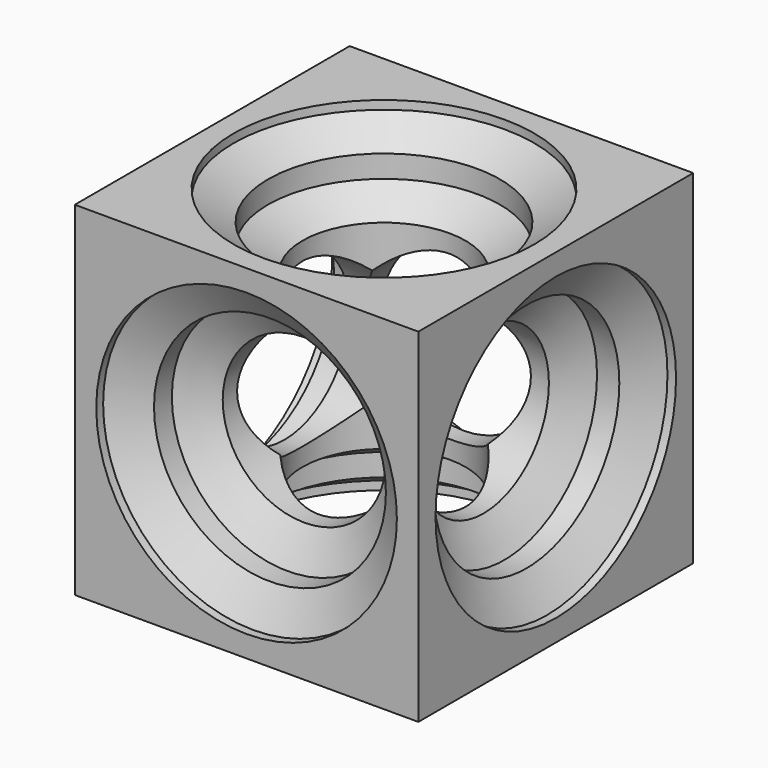
from build123d import *

# Parameters (mm, degrees)
F0_W             = 25.4
F0_H             = 25.4
F1_DEPTH         = 12.7
F3_D             = 3.175
F5_D             = 3.175
F7_D             = 3.175
F11_D            = 17.145
F11_DEPTH        = 3.81
F11_TIP          = 5.1508776566
F11_ON_F6_D      = 17.145
F11_ON_F6_DEPTH  = 3.81
F11_ON_F6_TIP    = 5.1508776566
F11_ON_F10_D     = 17.145
F11_ON_F10_DEPTH = 3.81
F11_ON_F10_TIP   = 5.1508776566
F11_ON_F4_D      = 17.145
F11_ON_F4_DEPTH  = 3.81
F11_ON_F4_TIP    = 5.1508776566
F11_ON_F9_D      = 17.145
F11_ON_F9_DEPTH  = 3.81
F11_ON_F9_TIP    = 5.1508776566
F11_ON_F2_D      = 17.145
F11_ON_F2_DEPTH  = 3.81
F11_ON_F2_TIP    = 5.1508776566
F12_D            = 22.225
F12_DEPTH        = 0.635
F12_TIP          = 6.6770636289
F12_ON_F2_D      = 22.225
F12_ON_F2_DEPTH  = 0.635
F12_ON_F2_TIP    = 6.6770636289
F12_ON_F10_D     = 22.225
F12_ON_F10_DEPTH = 0.635
F12_ON_F10_TIP   = 6.6770636289
F12_ON_F8_D      = 22.225
F12_ON_F8_DEPTH  = 0.635
F12_ON_F8_TIP    = 6.6770636289
F12_ON_F4_D      = 22.225
F12_ON_F4_DEPTH  = 0.635
F12_ON_F4_TIP    = 6.6770636289
F12_ON_F6_D      = 22.225
F12_ON_F6_DEPTH  = 0.635
F12_ON_F6_TIP    = 6.6770636289
F13_D            = 12.065
F13_DEPTH        = 3.81
F13_START        = 5.336186
F13_TIP          = 3.6246916843
F13_ON_F8_D      = 12.065
F13_ON_F8_DEPTH  = 3.81
F13_ON_F8_START  = 5.336186
F13_ON_F8_TIP    = 3.6246916843
F13_ON_F10_D     = 12.065
F13_ON_F10_DEPTH = 3.81
F13_ON_F10_START = 5.336186
F13_ON_F10_TIP   = 3.6246916843
F13_ON_F9_D      = 12.065
F13_ON_F9_DEPTH  = 3.81
F13_ON_F9_START  = 5.336186
F13_ON_F9_TIP    = 3.6246916843
F13_ON_F6_D      = 12.065
F13_ON_F6_DEPTH  = 3.81
F13_ON_F6_START  = 5.336186
F13_ON_F6_TIP    = 3.6246916843
F13_ON_F2_D      = 12.065
F13_ON_F2_DEPTH  = 3.81
F13_ON_F2_START  = 5.336186
F13_ON_F2_TIP    = 3.6246916843


with BuildPart() as f1:
    # F0 (on Top) → F1 (new body, symmetric)
    with BuildSketch(Plane.XY):
        Rectangle(F0_W, F0_H)
    extrude(amount=F1_DEPTH, both=True)

    # F3 (through all)
    with Locations(Plane.XY.offset(12.7)):
        with Locations((0, 0)):
            Hole(F3_D / 2)

    # F5 (through all)
    with Locations(Plane(origin=(-12.7, 0, 0), x_dir=(0, -1, 0), z_dir=(-1, 0, 0))):
        with Locations((0, 0)):
            Hole(F5_D / 2)

    # F7 (through all)
    with Locations(Plane(origin=(0, 12.7, 0), x_dir=(-1, 0, 0), z_dir=(0, 1, 0))):
        with Locations((0, 0)):
            Hole(F7_D / 2)

    # F11
    with Locations(Plane(origin=(0, 0, -12.7), x_dir=(1, 0, 0), z_dir=(0, 0, -1))):
        with Locations((0, 0)):
            Hole(F11_D / 2, depth=F11_DEPTH)
            with Locations((0, 0, -(F11_DEPTH + F11_TIP / 2))):  # 118° drill point
                Cone(0, F11_D / 2, F11_TIP, mode=Mode.SUBTRACT)

    # F11 on F6
    with Locations(Plane(origin=(0, 12.7, 0), x_dir=(-1, 0, 0), z_dir=(0, 1, 0))):
        with Locations((0, 0)):
            Hole(F11_ON_F6_D / 2, depth=F11_ON_F6_DEPTH)
            with Locations((0, 0, -(F11_ON_F6_DEPTH + F11_ON_F6_TIP / 2))):  # 118° drill point
                Cone(0, F11_ON_F6_D / 2, F11_ON_F6_TIP, mode=Mode.SUBTRACT)

    # F11 on F10
    with Locations(Plane.XZ.offset(12.7)):
        with Locations((0, 0)):
            Hole(F11_ON_F10_D / 2, depth=F11_ON_F10_DEPTH)
            with Locations((0, 0, -(F11_ON_F10_DEPTH + F11_ON_F10_TIP / 2))):  # 118° drill point
                Cone(0, F11_ON_F10_D / 2, F11_ON_F10_TIP, mode=Mode.SUBTRACT)

    # F11 on F4
    with Locations(Plane(origin=(-12.7, 0, 0), x_dir=(0, -1, 0), z_dir=(-1, 0, 0))):
        with Locations((0, 0)):
            Hole(F11_ON_F4_D / 2, depth=F11_ON_F4_DEPTH)
            with Locations((0, 0, -(F11_ON_F4_DEPTH + F11_ON_F4_TIP / 2))):  # 118° drill point
                Cone(0, F11_ON_F4_D / 2, F11_ON_F4_TIP, mode=Mode.SUBTRACT)

    # F11 on F9
    with Locations(Plane.YZ.offset(12.7)):
        with Locations((0, 0)):
            Hole(F11_ON_F9_D / 2, depth=F11_ON_F9_DEPTH)
            with Locations((0, 0, -(F11_ON_F9_DEPTH + F11_ON_F9_TIP / 2))):  # 118° drill point
                Cone(0, F11_ON_F9_D / 2, F11_ON_F9_TIP, mode=Mode.SUBTRACT)

    # F11 on F2
    with Locations(Plane.XY.offset(12.7)):
        with Locations((0, 0)):
            Hole(F11_ON_F2_D / 2, depth=F11_ON_F2_DEPTH)
            with Locations((0, 0, -(F11_ON_F2_DEPTH + F11_ON_F2_TIP / 2))):  # 118° drill point
                Cone(0, F11_ON_F2_D / 2, F11_ON_F2_TIP, mode=Mode.SUBTRACT)

    # F12
    with Locations(Plane.YZ.offset(12.7)):
        with Locations((0, 0)):
            Hole(F12_D / 2, depth=F12_DEPTH)
            with Locations((0, 0, -(F12_DEPTH + F12_TIP / 2))):  # 118° drill point
                Cone(0, F12_D / 2, F12_TIP, mode=Mode.SUBTRACT)

    # F12 on F2
    with Locations(Plane.XY.offset(12.7)):
        with Locations((0, 0)):
            Hole(F12_ON_F2_D / 2, depth=F12_ON_F2_DEPTH)
            with Locations((0, 0, -(F12_ON_F2_DEPTH + F12_ON_F2_TIP / 2))):  # 118° drill point
                Cone(0, F12_ON_F2_D / 2, F12_ON_F2_TIP, mode=Mode.SUBTRACT)

    # F12 on F10
    with Locations(Plane.XZ.offset(12.7)):
        with Locations((0, 0)):
            Hole(F12_ON_F10_D / 2, depth=F12_ON_F10_DEPTH)
            with Locations((0, 0, -(F12_ON_F10_DEPTH + F12_ON_F10_TIP / 2))):  # 118° drill point
                Cone(0, F12_ON_F10_D / 2, F12_ON_F10_TIP, mode=Mode.SUBTRACT)

    # F12 on F8
    with Locations(Plane(origin=(0, 0, -12.7), x_dir=(1, 0, 0), z_dir=(0, 0, -1))):
        with Locations((0, 0)):
            Hole(F12_ON_F8_D / 2, depth=F12_ON_F8_DEPTH)
            with Locations((0, 0, -(F12_ON_F8_DEPTH + F12_ON_F8_TIP / 2))):  # 118° drill point
                Cone(0, F12_ON_F8_D / 2, F12_ON_F8_TIP, mode=Mode.SUBTRACT)

    # F12 on F4
    with Locations(Plane(origin=(-12.7, 0, 0), x_dir=(0, -1, 0), z_dir=(-1, 0, 0))):
        with Locations((0, 0)):
            Hole(F12_ON_F4_D / 2, depth=F12_ON_F4_DEPTH)
            with Locations((0, 0, -(F12_ON_F4_DEPTH + F12_ON_F4_TIP / 2))):  # 118° drill point
                Cone(0, F12_ON_F4_D / 2, F12_ON_F4_TIP, mode=Mode.SUBTRACT)

    # F12 on F6
    with Locations(Plane(origin=(0, 12.7, 0), x_dir=(-1, 0, 0), z_dir=(0, 1, 0))):
        with Locations((0, 0)):
            Hole(F12_ON_F6_D / 2, depth=F12_ON_F6_DEPTH)
            with Locations((0, 0, -(F12_ON_F6_DEPTH + F12_ON_F6_TIP / 2))):  # 118° drill point
                Cone(0, F12_ON_F6_D / 2, F12_ON_F6_TIP, mode=Mode.SUBTRACT)

    # F13
    # its depths count from where the whole tool has entered the part; down to there all is cleared
    with Locations(Plane(origin=(-12.7, 0, 0), x_dir=(0, -1, 0), z_dir=(-1, 0, 0))):
        with Locations((0, 0)):
            Hole(F13_D / 2, depth=F13_START)
    with Locations(Plane(origin=(-12.7, 0, 0), x_dir=(0, -1, 0), z_dir=(-1, 0, 0)).offset(-F13_START)):
        with Locations((0, 0)):
            Hole(F13_D / 2, depth=F13_DEPTH)
            with Locations((0, 0, -(F13_DEPTH + F13_TIP / 2))):  # 118° drill point
                Cone(0, F13_D / 2, F13_TIP, mode=Mode.SUBTRACT)

    # F13 on F8
    # its depths count from where the whole tool has entered the part; down to there all is cleared
    with Locations(Plane(origin=(0, 0, -12.7), x_dir=(1, 0, 0), z_dir=(0, 0, -1))):
        with Locations((0, 0)):
            Hole(F13_ON_F8_D / 2, depth=F13_ON_F8_START)
    with Locations(Plane(origin=(0, 0, -12.7), x_dir=(1, 0, 0), z_dir=(0, 0, -1)).offset(-F13_ON_F8_START)):
        with Locations((0, 0)):
            Hole(F13_ON_F8_D / 2, depth=F13_ON_F8_DEPTH)
            with Locations((0, 0, -(F13_ON_F8_DEPTH + F13_ON_F8_TIP / 2))):  # 118° drill point
                Cone(0, F13_ON_F8_D / 2, F13_ON_F8_TIP, mode=Mode.SUBTRACT)

    # F13 on F10
    # its depths count from where the whole tool has entered the part; down to there all is cleared
    with Locations(Plane.XZ.offset(12.7)):
        with Locations((0, 0)):
            Hole(F13_ON_F10_D / 2, depth=F13_ON_F10_START)
    with Locations(Plane.XZ.offset(12.7).offset(-F13_ON_F10_START)):
        with Locations((0, 0)):
            Hole(F13_ON_F10_D / 2, depth=F13_ON_F10_DEPTH)
            with Locations((0, 0, -(F13_ON_F10_DEPTH + F13_ON_F10_TIP / 2))):  # 118° drill point
                Cone(0, F13_ON_F10_D / 2, F13_ON_F10_TIP, mode=Mode.SUBTRACT)

    # F13 on F9
    # its depths count from where the whole tool has entered the part; down to there all is cleared
    with Locations(Plane.YZ.offset(12.7)):
        with Locations((0, 0)):
            Hole(F13_ON_F9_D / 2, depth=F13_ON_F9_START)
    with Locations(Plane.YZ.offset(12.7).offset(-F13_ON_F9_START)):
        with Locations((0, 0)):
            Hole(F13_ON_F9_D / 2, depth=F13_ON_F9_DEPTH)
            with Locations((0, 0, -(F13_ON_F9_DEPTH + F13_ON_F9_TIP / 2))):  # 118° drill point
                Cone(0, F13_ON_F9_D / 2, F13_ON_F9_TIP, mode=Mode.SUBTRACT)

    # F13 on F6
    # its depths count from where the whole tool has entered the part; down to there all is cleared
    with Locations(Plane(origin=(0, 12.7, 0), x_dir=(-1, 0, 0), z_dir=(0, 1, 0))):
        with Locations((0, 0)):
            Hole(F13_ON_F6_D / 2, depth=F13_ON_F6_START)
    with Locations(Plane(origin=(0, 12.7, 0), x_dir=(-1, 0, 0), z_dir=(0, 1, 0)).offset(-F13_ON_F6_START)):
        with Locations((0, 0)):
            Hole(F13_ON_F6_D / 2, depth=F13_ON_F6_DEPTH)
            with Locations((0, 0, -(F13_ON_F6_DEPTH + F13_ON_F6_TIP / 2))):  # 118° drill point
                Cone(0, F13_ON_F6_D / 2, F13_ON_F6_TIP, mode=Mode.SUBTRACT)

    # F13 on F2
    # its depths count from where the whole tool has entered the part; down to there all is cleared
    with Locations(Plane.XY.offset(12.7)):
        with Locations((0, 0)):
            Hole(F13_ON_F2_D / 2, depth=F13_ON_F2_START)
    with Locations(Plane.XY.offset(12.7).offset(-F13_ON_F2_START)):
        with Locations((0, 0)):
            Hole(F13_ON_F2_D / 2, depth=F13_ON_F2_DEPTH)
            with Locations((0, 0, -(F13_ON_F2_DEPTH + F13_ON_F2_TIP / 2))):  # 118° drill point
                Cone(0, F13_ON_F2_D / 2, F13_ON_F2_TIP, mode=Mode.SUBTRACT)


solid = f1.part
